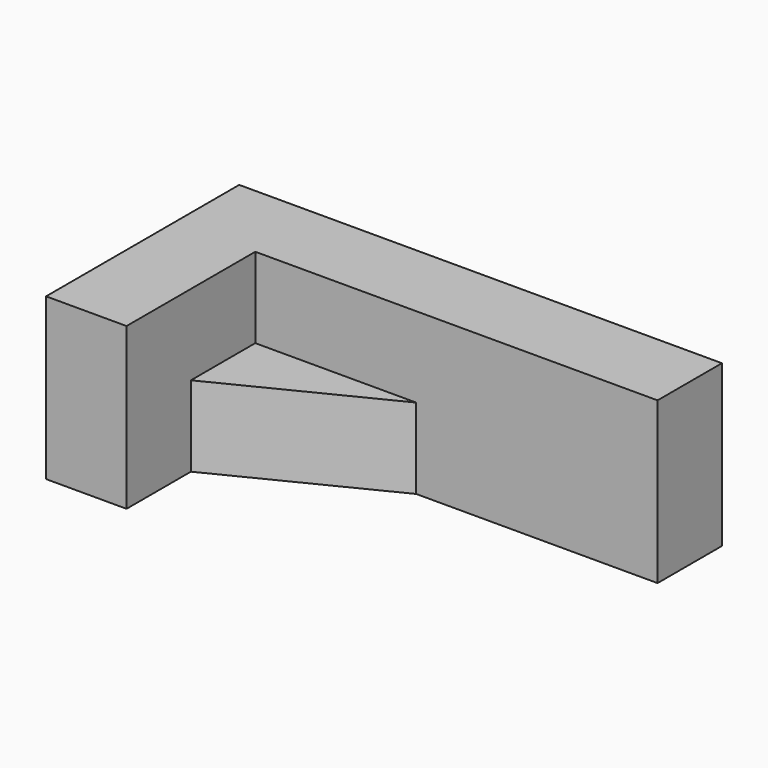
from build123d import *

# Parameters (mm, degrees)
F1_DEPTH = 50.8
F3_DEPTH = 25.4


with BuildPart() as f1:
    # F0 (on Top) → F1 (new body)
    with BuildSketch(Plane.XY):
        Polygon((0, 76.2), (0, 0), (25.4, 0), (25.4, 50.8), (152.4, 50.8), (152.4, 76.2), align=None)
    extrude(amount=F1_DEPTH)

    # F2 (on Top) → F3 (join)
    with BuildSketch(Plane.XY):
        Polygon((76.2, 50.8), (25.4, 50.8), (25.4, 25.4), align=None)
    extrude(amount=F3_DEPTH)


solid = f1.part
